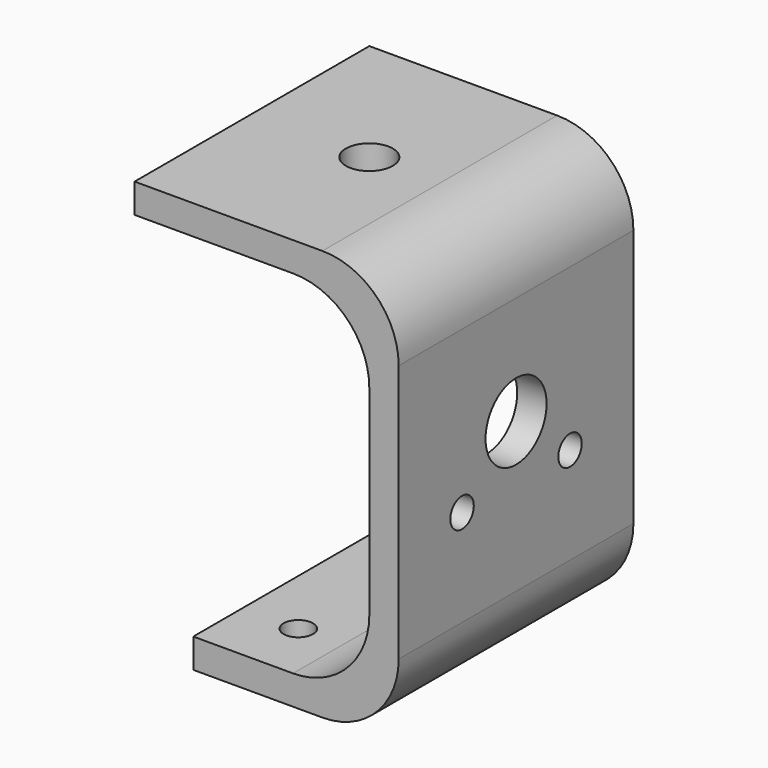
from build123d import *

# Parameters (mm, degrees)
F1_DEPTH      = 25
F1_DEPTH_BACK = 25
F2_R          = 13
F3_R          = 4
F4_DEPTH      = 10
F5_R          = 2.5
F6_DEPTH      = 10
F7_R          = 2.5
F7_R_2        = 6.5
F8_DEPTH      = 10


with BuildPart() as f1:
    # F0 (on Front) → F1 (new body, two sides)
    with BuildSketch(Plane.XZ) as f1_sk:
        Polygon((-27.5, -35), (7.5, -35), (7.5, 35), (-37.5, 35), (-37.5, 30), (2.5, 30), (2.5, -30), (-27.5, -30), align=None)
    extrude(amount=F1_DEPTH)
    extrude(f1_sk.sketch, amount=-F1_DEPTH_BACK)

    # F2
    f2_edges = [f1.edges().sort_by_distance(p)[0] for p in [
        (7.5, 0, 35),
        (7.5, 0, -35),
        (2.5, 0, -30),
        (2.5, 0, 30),
    ]]
    fillet(f2_edges, radius=F2_R)

    # F3 (on face) → F4 (cut)
    with BuildSketch(Plane.XY.offset(35)):
        with Locations((-17.5, 0)):
            Circle(F3_R)
    extrude(amount=-F4_DEPTH, mode=Mode.SUBTRACT)

    # F5 (on face) → F6 (cut)
    with BuildSketch(Plane(origin=(0, 0, -35), x_dir=(1, 0, 0), z_dir=(0, 0, -1))):
        with Locations((-18, -14.5)):
            Circle(F5_R)
        with Locations((-18, 14.5)):
            Circle(F5_R)
    extrude(amount=-F6_DEPTH, mode=Mode.SUBTRACT)

    # F7 (on face) → F8 (cut)
    with BuildSketch(Plane.YZ.offset(7.5)):
        with Locations((11.5, -5.5)):
            Circle(F7_R)
        with Locations((-11.5, -5.5)):
            Circle(F7_R)
        with Locations((0, 3.5)):
            Circle(F7_R_2)
    extrude(amount=-F8_DEPTH, mode=Mode.SUBTRACT)


solid = f1.part
